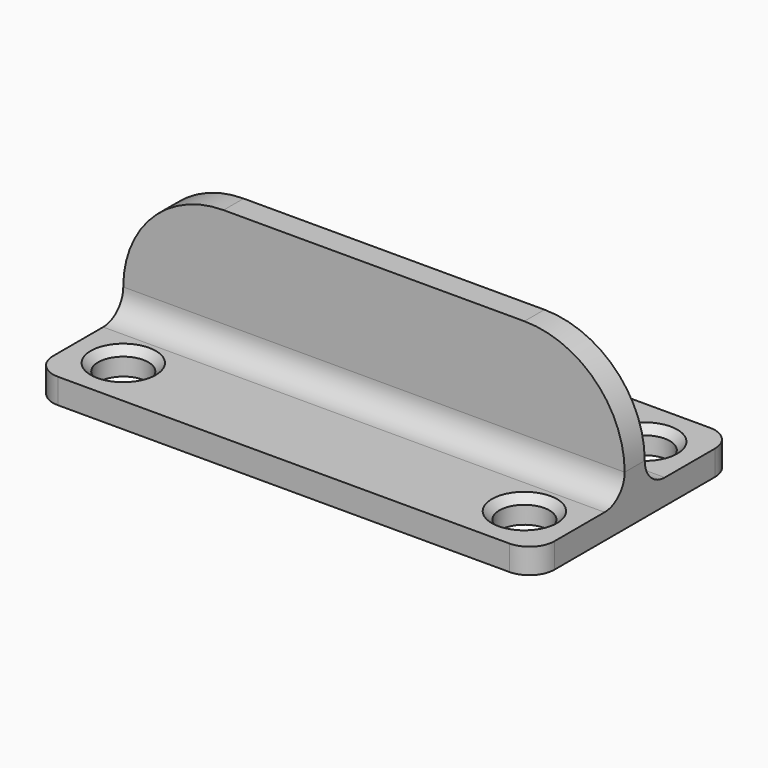
from build123d import *

# Parameters (mm, degrees)
SKETCH_R     = 5
PAD_DEPTH    = 5
PAD001_DEPTH = 2.5
FILLET_R     = 5
CHAMFER_SIZE = 1.5


with BuildPart() as part:
    # Sketch → Pad (new body)
    with BuildSketch(Plane.XY):
        with BuildLine():
            Line((-50, 20), (-50, -20))
            ThreePointArc((-50, -20), (-48.535534, -23.535534), (-45, -25))
            Line((-45, -25), (45, -25))
            ThreePointArc((45, -25), (48.535534, -23.535534), (50, -20))
            Line((50, -20), (50, 20))
            ThreePointArc((50, 20), (48.535534, 23.535534), (45, 25))
            Line((45, 25), (-45, 25))
            ThreePointArc((-45, 25), (-48.535534, 23.535534), (-50, 20))
        make_face()
        with Locations((-40, 15)):
            Circle(SKETCH_R, mode=Mode.SUBTRACT)
        with Locations((40, 15)):
            Circle(SKETCH_R, mode=Mode.SUBTRACT)
        with Locations((40, -15)):
            Circle(SKETCH_R, mode=Mode.SUBTRACT)
        with Locations((-40, -15)):
            Circle(SKETCH_R, mode=Mode.SUBTRACT)
    extrude(amount=PAD_DEPTH)

    # Sketch001 → Pad001 (join, symmetric)
    with BuildSketch(Plane.XZ):
        with BuildLine():
            Line((-50, 10), (-50, 5))
            Line((-50, 5), (50, 5))
            Line((50, 5), (50, 10))
            ThreePointArc((50, 10), (44.142136, 24.142136), (30, 30))
            Line((30, 30), (-30, 30))
            ThreePointArc((-30, 30), (-44.142136, 24.142136), (-50, 10))
        make_face()
    extrude(amount=PAD001_DEPTH, both=True)

    # Fillet
    fillet_edges = [part.edges().sort_by_distance(p)[0] for p in [
        (0, -2.5, 5),
        (0, 2.5, 5),
    ]]
    fillet(fillet_edges, radius=FILLET_R)

    # Chamfer
    chamfer_edges = [part.edges().sort_by_distance(p)[0] for p in [
        (35, 15, 5),
        (-45, 15, 5),
        (35, -15, 5),
        (-45, -15, 5),
    ]]
    chamfer(chamfer_edges, length=CHAMFER_SIZE)


solid = part.part
